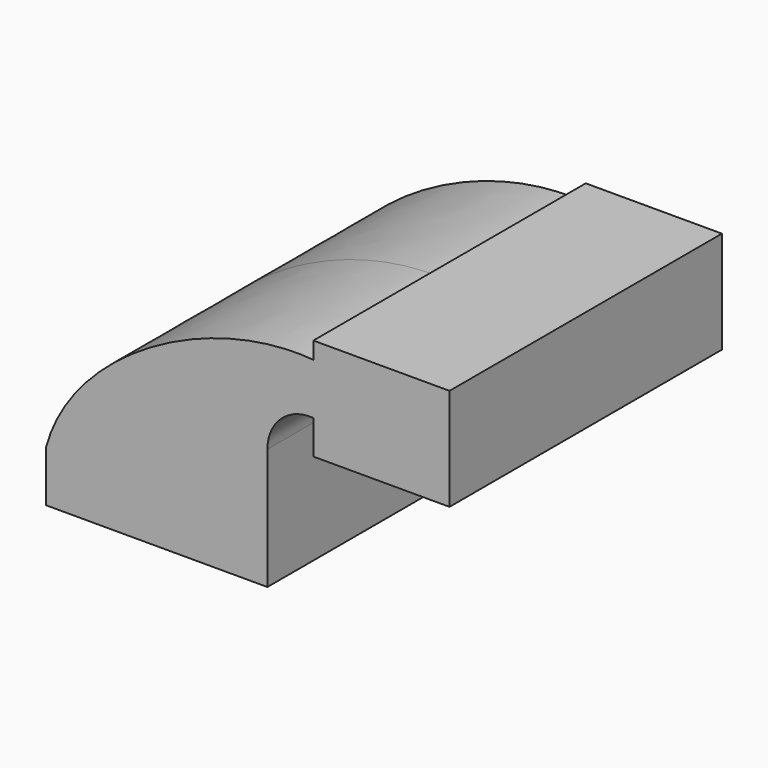
from build123d import *

# Parameters (mm, degrees)
F1_DEPTH = 63.5


with BuildPart() as f1:
    # F0 (on Front) → F1 (new body, symmetric)
    with BuildSketch(Plane.XZ):
        Polygon((0, -19.05), (0, 0), (-19.05, 0), (-82.55, 0), (-82.55, -19.05), align=None)
        with BuildLine():
            Line((-19.05, 0), (0, 0))
            Line((0, 0), (0, 26.2125618818))
            ThreePointArc((0, 26.2125618818), (5.1046194299, 37.875088511), (17.1356884883, 42.0374248997))
            Line((17.1356884883, 42.0374248997), (17.1356884883, 61.1148009151))
            ThreePointArc((17.1356884883, 61.1148009151), (-8.3708870692, 51.3500356059), (-19.05, 26.2125618818))
            Line((-19.05, 26.2125618818), (-19.05, 0))
        make_face()
        with BuildLine():
            Line((-82.55, 0), (-19.05, 0))
            Line((-19.05, 0), (-19.05, 26.2125618818))
            ThreePointArc((-19.05, 26.2125618818), (-8.3708870692, 51.3500356059), (17.1356884883, 61.1148009151))
            Line((17.1356884883, 61.1148009151), (17.1356884883, 61.1409451572))
            add(Edge.make_bspline(
                [(-82.55, 0), (-72.9245103975, 36.1768728134), (-22.0509869973, 64.4096908507), (17.1356884883, 61.1409451572)],
                knots=[0, 0, 0, 0, 116.8275062675, 116.8275062675, 116.8275062675, 116.8275062675], degree=3))
        make_face()
        with BuildLine():
            Line((17.1356884883, 61.1148009151), (17.1356884883, 42.0374248997))
            Line((17.1356884883, 42.0374248997), (17.1356884883, 29.3641235165))
            Line((17.1356884883, 29.3641235165), (43.6262154953, 29.3641235165))
            Line((43.6262154953, 29.3641235165), (43.6262154953, 61.0874248997))
            Line((43.6262154953, 61.0874248997), (17.74570962, 61.0874248997))
            ThreePointArc((17.74570962, 61.0874248997), (17.4407588862, 61.102446148), (17.1356884883, 61.1148009151))
        make_face()
        with BuildLine():
            add(Edge.make_bspline(
                [(17.1356884883, 61.1409451572), (17.3393470069, 61.1239570383), (17.5426898611, 61.1061180547), (17.74570962, 61.0874248997)],
                knots=[116.8275062675, 116.8275062675, 116.8275062675, 116.8275062675, 117.4346748157, 117.4346748157, 117.4346748157, 117.4346748157], degree=3))
            Line((17.1356884883, 61.1409451572), (17.1356884883, 61.1148009151))
            ThreePointArc((17.1356884883, 61.1148009151), (17.4407588862, 61.102446148), (17.74570962, 61.0874248997))
        make_face()
        with BuildLine():
            Line((17.1356884883, 67.4641235165), (17.1356884883, 61.1409451572))
            add(Edge.make_bspline(
                [(17.1356884883, 61.1409451572), (17.3393470069, 61.1239570383), (17.5426898611, 61.1061180547), (17.74570962, 61.0874248997)],
                knots=[116.8275062675, 116.8275062675, 116.8275062675, 116.8275062675, 117.4346748157, 117.4346748157, 117.4346748157, 117.4346748157], degree=3))
            Line((17.74570962, 61.0874248997), (43.6262154953, 61.0874248997))
            Line((43.6262154953, 61.0874248997), (43.6262154953, 29.3641235165))
            Line((43.6262154953, 29.3641235165), (67.9356884883, 29.3641235165))
            Line((67.9356884883, 29.3641235165), (67.9356884883, 67.4641235165))
            Line((67.9356884883, 67.4641235165), (17.1356884883, 67.4641235165))
        make_face()
    extrude(amount=F1_DEPTH, both=True)


solid = f1.part
